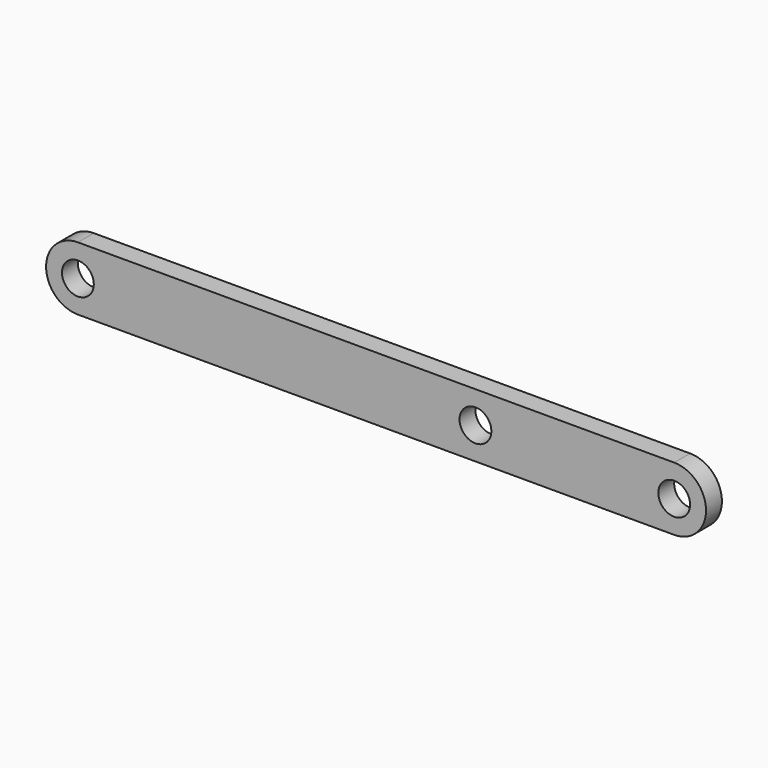
from build123d import *

# Parameters (mm, degrees)
F0_R     = 2
F1_DEPTH = 2.5


with BuildPart() as f1:
    # F0 (on Front) → F1 (new body)
    with BuildSketch(Plane.XZ):
        with BuildLine():
            Line((-75, -4), (0, -4))
            ThreePointArc((0, -4), (4, 0), (0, 4))
            Line((0, 4), (-75, 4))
            ThreePointArc((-75, 4), (-79, 0), (-75, -4))
        make_face()
        with Locations((-75, 0)):
            Circle(F0_R, mode=Mode.SUBTRACT)
        with Locations((-25, 0)):
            Circle(F0_R, mode=Mode.SUBTRACT)
        Circle(F0_R, mode=Mode.SUBTRACT)
    extrude(amount=F1_DEPTH)


solid = f1.part
